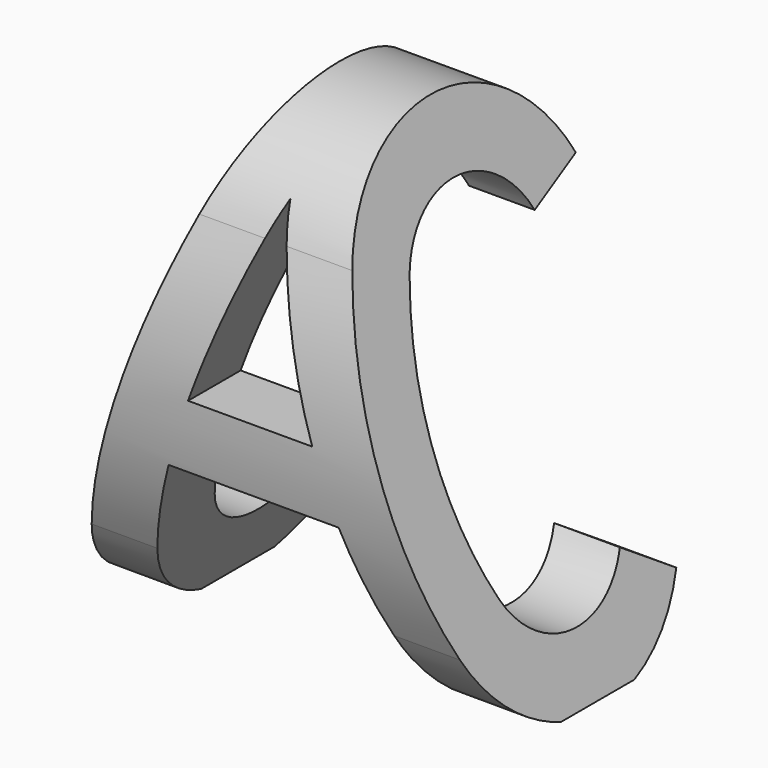
from build123d import *

# Parameters (mm, degrees)
F2_DEPTH = 25.4
F3_DEPTH = 25.4


with BuildPart() as f2:
    # F0 (on Front) → F2 (new body, symmetric)
    with BuildSketch(Plane.XZ):
        Polygon((-4.459682, 25.4), (-22.225, -25.4), (-15.367, -25.4), (-8.882659, -6.858), (0, -6.858), (8.882659, -6.858), (15.367, -25.4), (22.225, -25.4), (4.459682, 25.4), (0, 25.4), align=None)
        Polygon((-6.484341, 0), (0, 18.542), (6.484341, 0), (0, 0), align=None, mode=Mode.SUBTRACT)
    extrude(amount=F2_DEPTH, both=True)

    # F1 (on Right) → F3 (intersect, symmetric)
    with BuildSketch(Plane.YZ):
        with BuildLine():
            Line((10.950837, 12.134485), (17.372236, 14.542348))
            ThreePointArc((17.372236, 14.542348), (3.210506, 24.639486), (-11.470547, 15.313531))
            ThreePointArc((-11.470547, 15.313531), (-14.831433, -0.761551), (-11.470547, -16.836634))
            ThreePointArc((-11.470547, -16.836634), (1.458806, -26.099206), (15.7648, -19.149246))
            Line((15.7648, -19.149246), (10.034468, -15.38156))
            ThreePointArc((10.034468, -15.38156), (2.039045, -19.265796), (-5.186992, -14.089072))
            ThreePointArc((-5.186992, -14.089072), (-7.973433, -0.761551), (-5.186992, 12.56597))
            ThreePointArc((-5.186992, 12.56597), (3.027206, 17.783936), (10.950837, 12.134485))
        make_face()
    extrude(amount=F3_DEPTH, both=True, mode=Mode.INTERSECT)


solid = f2.part
